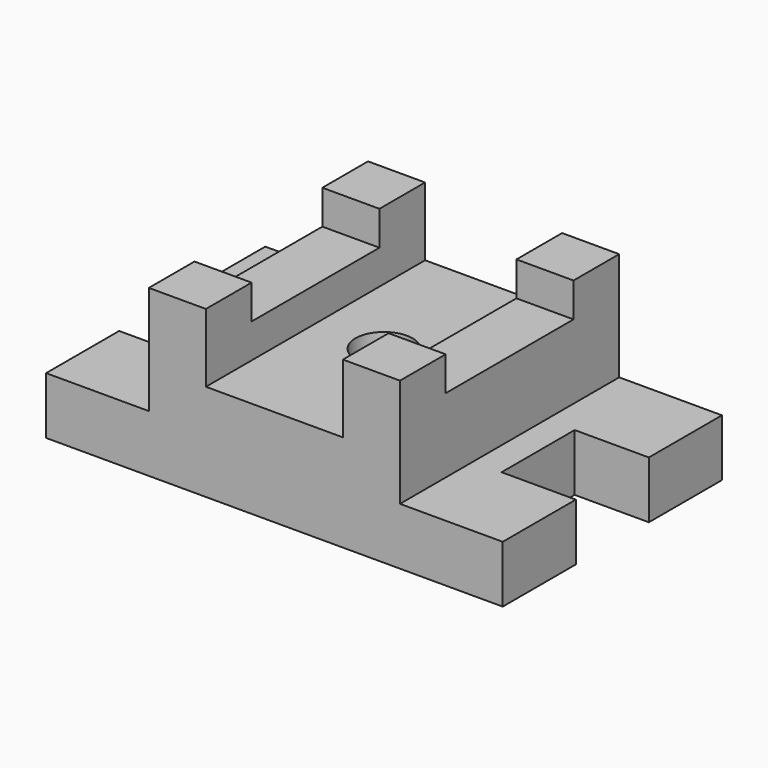
from build123d import *

# Parameters (mm, degrees)
F1_DEPTH = 31.75
F2_W     = 31.75
F2_H     = 31.75
F3_DEPTH = 60.325
F4_W     = 76.2
F4_H     = 31.75
F4_W_2   = 31.75
F4_H_2   = 88.9
F5_DEPTH = 22.225
F6_W     = 31.75
F6_H     = 88.9
F7_DEPTH = 19.05
F9_DEPTH = 53.975


with BuildPart() as f1:
    # F0 (on Top) → F1 (new body)
    with BuildSketch(Plane.XY):
        Polygon((129.311968, 50.8), (-124.688032, 50.8), (-124.688032, 0), (-83.413032, 0), (-83.413032, -50.8), (-124.688032, -50.8), (-124.688032, -101.6), (129.311968, -101.6), (129.311968, -50.8), (88.036968, -50.8), (88.036968, 0), (129.311968, 0), align=None)
    extrude(amount=F1_DEPTH)

    # F2 (on face) → F3 (join)
    with BuildSketch(Plane.XY.offset(31.75)):
        with Locations((56.286968, -85.725)):
            Rectangle(F2_W, F2_H)
        with Locations((56.286968, 34.925)):
            Rectangle(F2_W, F2_H)
        with Locations((-51.663032, -85.725)):
            Rectangle(F2_W, F2_H)
        with Locations((-51.663032, 34.925)):
            Rectangle(F2_W, F2_H)
    extrude(amount=F3_DEPTH)

    # F4 (on face) → F5 (join)
    with BuildSketch(Plane.XY.offset(31.75)):
        with Locations((2.311968, 34.925)):
            Rectangle(F4_W, F4_H)
        with Locations((2.311968, -85.725)):
            Rectangle(F4_W, F4_H)
        with Locations((56.286968, -25.4)):
            Rectangle(F4_W_2, F4_H_2)
        with Locations((2.311968, -25.4)):
            Rectangle(F4_W, F4_H_2)
        with Locations((-51.663032, -25.4)):
            Rectangle(F4_W_2, F4_H_2)
    extrude(amount=F5_DEPTH)

    # F6 (on face) → F7 (join)
    with BuildSketch(Plane.XY.offset(53.975)):
        with Locations((56.286968, -25.4)):
            Rectangle(F6_W, F6_H)
        with Locations((-51.663032, -25.4)):
            Rectangle(F6_W, F6_H)
    extrude(amount=F7_DEPTH)

    # F8 (on face) → F9 (cut)
    with BuildSketch(Plane.XY.offset(53.975)):
        with BuildLine():
            ThreePointArc((2.311968, -41.275), (13.537288, -36.62532), (18.186968, -25.4))
            ThreePointArc((18.186968, -25.4), (-8.913352, -14.17468), (2.311968, -41.275))
        make_face()
    extrude(amount=-F9_DEPTH, mode=Mode.SUBTRACT)


solid = f1.part
